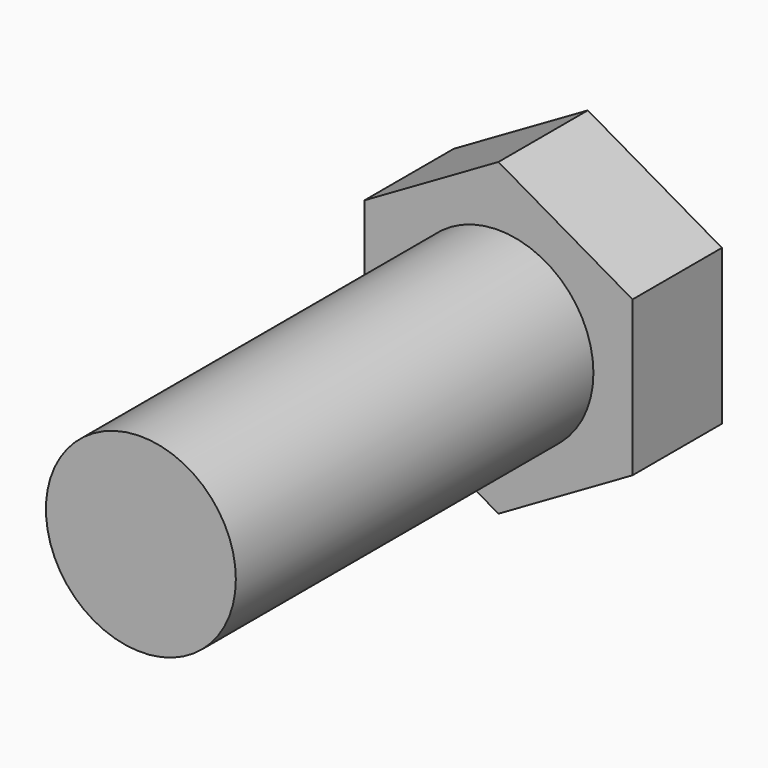
from build123d import *

# Parameters (mm, degrees)
F1_DEPTH = 25
F2_R     = 42.4995
F3_DEPTH = 200


with BuildPart() as f1:
    # F0 (on Front) → F1 (new body, symmetric)
    with BuildSketch(Plane.XZ):
        Polygon((-60, 34.641016), (-60, -34.641016), (0, -69.282032), (60, -34.641016), (60, 34.641016), (0, 69.282032), align=None)
    extrude(amount=F1_DEPTH, both=True)

    # F2 (on face) → F3 (join)
    with BuildSketch(Plane.XZ.offset(25)):
        Circle(F2_R)
    extrude(amount=F3_DEPTH)


solid = f1.part
